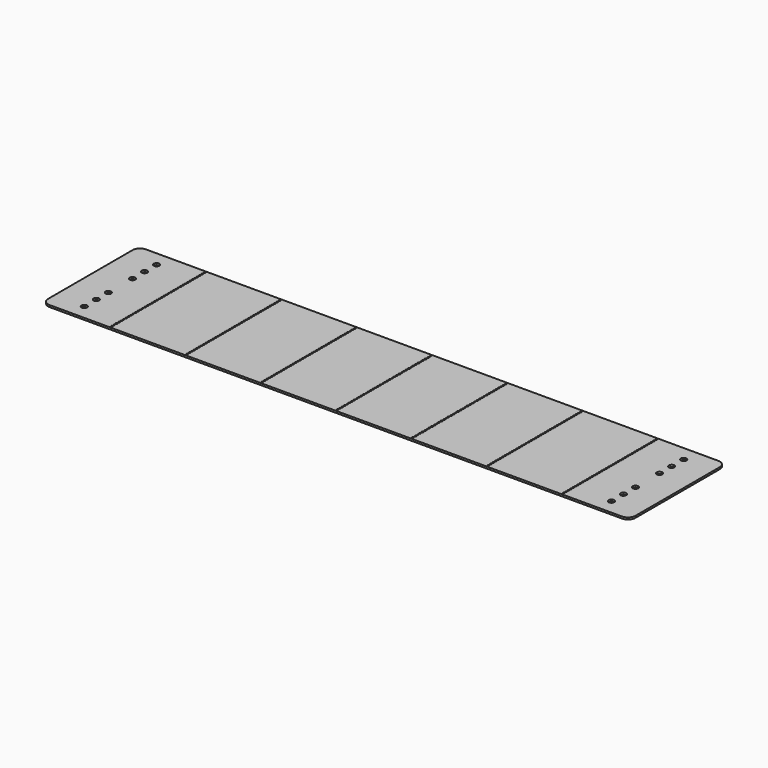
from build123d import *

# Parameters (mm, degrees)
F0_R     = 1.27
F0_R_2   = 4.7625
F1_DEPTH = 3.175


with BuildPart() as f1:
    # F0 (on Top) → F1 (new body)
    with BuildSketch(Plane.XY):
        with BuildLine():
            ThreePointArc((-443.862675, 35.817315), (-444.234649, 36.71534), (-445.132675, 37.087315))
            ThreePointArc((-445.132675, 37.087315), (-446.0307, 34.919289), (-443.862675, 35.817315))
        make_face()
        with BuildLine():
            Line((-445.132675, 39.919415), (-546.732675, 39.919415))
            ThreePointArc((-546.732675, 39.919415), (-555.712931, 36.199671), (-559.432675, 27.219415))
            Line((-559.432675, 27.219415), (-559.432675, -150.580585))
            ThreePointArc((-559.432675, -150.580585), (-555.712931, -159.560841), (-546.732675, -163.280585))
            Line((-546.732675, -163.280585), (418.467325, -163.280585))
            ThreePointArc((418.467325, -163.280585), (427.447582, -159.560841), (431.167325, -150.580585))
            Line((431.167325, -150.580585), (431.167325, 27.219415))
            ThreePointArc((431.167325, 27.219415), (427.447582, 36.199671), (418.467325, 39.919415))
            Line((418.467325, 39.919415), (-445.132675, 39.919415))
        make_face()
        with Locations((-445.132675, -159.182685)):
            Circle(F0_R, mode=Mode.SUBTRACT)
        with Locations((-445.132675, -154.182685)):
            Circle(F0_R, mode=Mode.SUBTRACT)
        with Locations((-445.132675, -149.182685)):
            Circle(F0_R, mode=Mode.SUBTRACT)
        with Locations((-445.132675, -144.182685)):
            Circle(F0_R, mode=Mode.SUBTRACT)
        with Locations((-445.132675, -139.182685)):
            Circle(F0_R, mode=Mode.SUBTRACT)
        with Locations((-318.132675, -159.182685)):
            Circle(F0_R, mode=Mode.SUBTRACT)
        with Locations((-318.132675, -154.182685)):
            Circle(F0_R, mode=Mode.SUBTRACT)
        with Locations((-318.132675, -149.182685)):
            Circle(F0_R, mode=Mode.SUBTRACT)
        with Locations((-318.132675, -144.182685)):
            Circle(F0_R, mode=Mode.SUBTRACT)
        with Locations((-318.132675, -139.182685)):
            Circle(F0_R, mode=Mode.SUBTRACT)
        with Locations((-508.632675, -137.880585)):
            Circle(F0_R_2, mode=Mode.SUBTRACT)
        with Locations((-445.132675, -134.182685)):
            Circle(F0_R, mode=Mode.SUBTRACT)
        with Locations((-445.132675, -129.182685)):
            Circle(F0_R, mode=Mode.SUBTRACT)
        with Locations((-445.132675, -124.182685)):
            Circle(F0_R, mode=Mode.SUBTRACT)
        with Locations((-445.132675, -119.182685)):
            Circle(F0_R, mode=Mode.SUBTRACT)
        with Locations((-445.132675, -114.182685)):
            Circle(F0_R, mode=Mode.SUBTRACT)
        with Locations((-318.132675, -134.182685)):
            Circle(F0_R, mode=Mode.SUBTRACT)
        with Locations((-318.132675, -129.182685)):
            Circle(F0_R, mode=Mode.SUBTRACT)
        with Locations((-318.132675, -124.182685)):
            Circle(F0_R, mode=Mode.SUBTRACT)
        with Locations((-318.132675, -119.182685)):
            Circle(F0_R, mode=Mode.SUBTRACT)
        with Locations((-318.132675, -114.182685)):
            Circle(F0_R, mode=Mode.SUBTRACT)
        with Locations((-191.132675, -159.182685)):
            Circle(F0_R, mode=Mode.SUBTRACT)
        with Locations((-191.132675, -154.182685)):
            Circle(F0_R, mode=Mode.SUBTRACT)
        with Locations((-191.132675, -149.182685)):
            Circle(F0_R, mode=Mode.SUBTRACT)
        with Locations((-191.132675, -144.182685)):
            Circle(F0_R, mode=Mode.SUBTRACT)
        with Locations((-191.132675, -139.182685)):
            Circle(F0_R, mode=Mode.SUBTRACT)
        with Locations((-191.132675, -134.182685)):
            Circle(F0_R, mode=Mode.SUBTRACT)
        with Locations((-191.132675, -129.182685)):
            Circle(F0_R, mode=Mode.SUBTRACT)
        with Locations((-191.132675, -124.182685)):
            Circle(F0_R, mode=Mode.SUBTRACT)
        with Locations((-191.132675, -119.182685)):
            Circle(F0_R, mode=Mode.SUBTRACT)
        with Locations((-191.132675, -114.182685)):
            Circle(F0_R, mode=Mode.SUBTRACT)
        with Locations((-508.632675, -112.480585)):
            Circle(F0_R_2, mode=Mode.SUBTRACT)
        with Locations((-445.132675, -109.182685)):
            Circle(F0_R, mode=Mode.SUBTRACT)
        with Locations((-445.132675, -104.182685)):
            Circle(F0_R, mode=Mode.SUBTRACT)
        with Locations((-445.132675, -99.182685)):
            Circle(F0_R, mode=Mode.SUBTRACT)
        with Locations((-445.132675, -94.182685)):
            Circle(F0_R, mode=Mode.SUBTRACT)
        with Locations((-445.132675, -89.182685)):
            Circle(F0_R, mode=Mode.SUBTRACT)
        with Locations((-318.132675, -109.182685)):
            Circle(F0_R, mode=Mode.SUBTRACT)
        with Locations((-318.132675, -104.182685)):
            Circle(F0_R, mode=Mode.SUBTRACT)
        with Locations((-318.132675, -99.182685)):
            Circle(F0_R, mode=Mode.SUBTRACT)
        with Locations((-318.132675, -94.182685)):
            Circle(F0_R, mode=Mode.SUBTRACT)
        with Locations((-318.132675, -89.182685)):
            Circle(F0_R, mode=Mode.SUBTRACT)
        with Locations((-508.632675, -87.080585)):
            Circle(F0_R_2, mode=Mode.SUBTRACT)
        with Locations((-445.132675, -84.182685)):
            Circle(F0_R, mode=Mode.SUBTRACT)
        with Locations((-445.132675, -79.182685)):
            Circle(F0_R, mode=Mode.SUBTRACT)
        with Locations((-445.132675, -74.182685)):
            Circle(F0_R, mode=Mode.SUBTRACT)
        with Locations((-445.132675, -69.182685)):
            Circle(F0_R, mode=Mode.SUBTRACT)
        with Locations((-445.132675, -64.182685)):
            Circle(F0_R, mode=Mode.SUBTRACT)
        with Locations((-318.132675, -84.182685)):
            Circle(F0_R, mode=Mode.SUBTRACT)
        with Locations((-318.132675, -79.182685)):
            Circle(F0_R, mode=Mode.SUBTRACT)
        with Locations((-318.132675, -74.182685)):
            Circle(F0_R, mode=Mode.SUBTRACT)
        with Locations((-318.132675, -69.182685)):
            Circle(F0_R, mode=Mode.SUBTRACT)
        with Locations((-318.132675, -64.182685)):
            Circle(F0_R, mode=Mode.SUBTRACT)
        with Locations((-191.132675, -109.182685)):
            Circle(F0_R, mode=Mode.SUBTRACT)
        with Locations((-191.132675, -104.182685)):
            Circle(F0_R, mode=Mode.SUBTRACT)
        with Locations((-191.132675, -99.182685)):
            Circle(F0_R, mode=Mode.SUBTRACT)
        with Locations((-191.132675, -94.182685)):
            Circle(F0_R, mode=Mode.SUBTRACT)
        with Locations((-191.132675, -89.182685)):
            Circle(F0_R, mode=Mode.SUBTRACT)
        with Locations((-191.132675, -84.182685)):
            Circle(F0_R, mode=Mode.SUBTRACT)
        with Locations((-191.132675, -79.182685)):
            Circle(F0_R, mode=Mode.SUBTRACT)
        with Locations((-191.132675, -74.182685)):
            Circle(F0_R, mode=Mode.SUBTRACT)
        with Locations((-191.132675, -69.182685)):
            Circle(F0_R, mode=Mode.SUBTRACT)
        with Locations((-191.132675, -64.182685)):
            Circle(F0_R, mode=Mode.SUBTRACT)
        with Locations((-64.132675, -159.182685)):
            Circle(F0_R, mode=Mode.SUBTRACT)
        with Locations((-64.132675, -154.182685)):
            Circle(F0_R, mode=Mode.SUBTRACT)
        with Locations((-64.132675, -149.182685)):
            Circle(F0_R, mode=Mode.SUBTRACT)
        with Locations((-64.132675, -144.182685)):
            Circle(F0_R, mode=Mode.SUBTRACT)
        with Locations((-64.132675, -139.182685)):
            Circle(F0_R, mode=Mode.SUBTRACT)
        with Locations((62.867325, -159.182685)):
            Circle(F0_R, mode=Mode.SUBTRACT)
        with Locations((62.867325, -154.182685)):
            Circle(F0_R, mode=Mode.SUBTRACT)
        with Locations((62.867325, -149.182685)):
            Circle(F0_R, mode=Mode.SUBTRACT)
        with Locations((62.867325, -144.182685)):
            Circle(F0_R, mode=Mode.SUBTRACT)
        with Locations((62.867325, -139.182685)):
            Circle(F0_R, mode=Mode.SUBTRACT)
        with Locations((-64.132675, -134.182685)):
            Circle(F0_R, mode=Mode.SUBTRACT)
        with Locations((-64.132675, -129.182685)):
            Circle(F0_R, mode=Mode.SUBTRACT)
        with Locations((-64.132675, -124.182685)):
            Circle(F0_R, mode=Mode.SUBTRACT)
        with Locations((-64.132675, -119.182685)):
            Circle(F0_R, mode=Mode.SUBTRACT)
        with Locations((-64.132675, -114.182685)):
            Circle(F0_R, mode=Mode.SUBTRACT)
        with Locations((62.867325, -134.182685)):
            Circle(F0_R, mode=Mode.SUBTRACT)
        with Locations((62.867325, -129.182685)):
            Circle(F0_R, mode=Mode.SUBTRACT)
        with Locations((62.867325, -124.182685)):
            Circle(F0_R, mode=Mode.SUBTRACT)
        with Locations((62.867325, -119.182685)):
            Circle(F0_R, mode=Mode.SUBTRACT)
        with Locations((62.867325, -114.182685)):
            Circle(F0_R, mode=Mode.SUBTRACT)
        with Locations((189.867325, -159.182685)):
            Circle(F0_R, mode=Mode.SUBTRACT)
        with Locations((189.867325, -154.182685)):
            Circle(F0_R, mode=Mode.SUBTRACT)
        with Locations((189.867325, -149.182685)):
            Circle(F0_R, mode=Mode.SUBTRACT)
        with Locations((189.867325, -144.182685)):
            Circle(F0_R, mode=Mode.SUBTRACT)
        with Locations((189.867325, -139.182685)):
            Circle(F0_R, mode=Mode.SUBTRACT)
        with Locations((316.867325, -159.182685)):
            Circle(F0_R, mode=Mode.SUBTRACT)
        with Locations((316.867325, -154.182685)):
            Circle(F0_R, mode=Mode.SUBTRACT)
        with Locations((316.867325, -149.182685)):
            Circle(F0_R, mode=Mode.SUBTRACT)
        with Locations((316.867325, -144.182685)):
            Circle(F0_R, mode=Mode.SUBTRACT)
        with Locations((316.867325, -139.182685)):
            Circle(F0_R, mode=Mode.SUBTRACT)
        with Locations((189.867325, -134.182685)):
            Circle(F0_R, mode=Mode.SUBTRACT)
        with Locations((189.867325, -129.182685)):
            Circle(F0_R, mode=Mode.SUBTRACT)
        with Locations((189.867325, -124.182685)):
            Circle(F0_R, mode=Mode.SUBTRACT)
        with Locations((189.867325, -119.182685)):
            Circle(F0_R, mode=Mode.SUBTRACT)
        with Locations((189.867325, -114.182685)):
            Circle(F0_R, mode=Mode.SUBTRACT)
        with Locations((316.867325, -134.182685)):
            Circle(F0_R, mode=Mode.SUBTRACT)
        with Locations((316.867325, -129.182685)):
            Circle(F0_R, mode=Mode.SUBTRACT)
        with Locations((380.367325, -137.880585)):
            Circle(F0_R_2, mode=Mode.SUBTRACT)
        with Locations((316.867325, -124.182685)):
            Circle(F0_R, mode=Mode.SUBTRACT)
        with Locations((316.867325, -119.182685)):
            Circle(F0_R, mode=Mode.SUBTRACT)
        with Locations((316.867325, -114.182685)):
            Circle(F0_R, mode=Mode.SUBTRACT)
        with Locations((-64.132675, -109.182685)):
            Circle(F0_R, mode=Mode.SUBTRACT)
        with Locations((-64.132675, -104.182685)):
            Circle(F0_R, mode=Mode.SUBTRACT)
        with Locations((-64.132675, -99.182685)):
            Circle(F0_R, mode=Mode.SUBTRACT)
        with Locations((-64.132675, -94.182685)):
            Circle(F0_R, mode=Mode.SUBTRACT)
        with Locations((-64.132675, -89.182685)):
            Circle(F0_R, mode=Mode.SUBTRACT)
        with Locations((62.867325, -109.182685)):
            Circle(F0_R, mode=Mode.SUBTRACT)
        with Locations((62.867325, -104.182685)):
            Circle(F0_R, mode=Mode.SUBTRACT)
        with Locations((62.867325, -99.182685)):
            Circle(F0_R, mode=Mode.SUBTRACT)
        with Locations((62.867325, -94.182685)):
            Circle(F0_R, mode=Mode.SUBTRACT)
        with Locations((62.867325, -89.182685)):
            Circle(F0_R, mode=Mode.SUBTRACT)
        with Locations((-64.132675, -84.182685)):
            Circle(F0_R, mode=Mode.SUBTRACT)
        with Locations((-64.132675, -79.182685)):
            Circle(F0_R, mode=Mode.SUBTRACT)
        with Locations((-64.132675, -74.182685)):
            Circle(F0_R, mode=Mode.SUBTRACT)
        with Locations((-64.132675, -69.182685)):
            Circle(F0_R, mode=Mode.SUBTRACT)
        with Locations((-64.132675, -64.182685)):
            Circle(F0_R, mode=Mode.SUBTRACT)
        with Locations((62.867325, -84.182685)):
            Circle(F0_R, mode=Mode.SUBTRACT)
        with Locations((62.867325, -79.182685)):
            Circle(F0_R, mode=Mode.SUBTRACT)
        with Locations((62.867325, -74.182685)):
            Circle(F0_R, mode=Mode.SUBTRACT)
        with Locations((62.867325, -69.182685)):
            Circle(F0_R, mode=Mode.SUBTRACT)
        with Locations((62.867325, -64.182685)):
            Circle(F0_R, mode=Mode.SUBTRACT)
        with Locations((189.867325, -109.182685)):
            Circle(F0_R, mode=Mode.SUBTRACT)
        with Locations((189.867325, -104.182685)):
            Circle(F0_R, mode=Mode.SUBTRACT)
        with Locations((189.867325, -99.182685)):
            Circle(F0_R, mode=Mode.SUBTRACT)
        with Locations((189.867325, -94.182685)):
            Circle(F0_R, mode=Mode.SUBTRACT)
        with Locations((189.867325, -89.182685)):
            Circle(F0_R, mode=Mode.SUBTRACT)
        with Locations((316.867325, -109.182685)):
            Circle(F0_R, mode=Mode.SUBTRACT)
        with Locations((316.867325, -104.182685)):
            Circle(F0_R, mode=Mode.SUBTRACT)
        with Locations((380.367325, -112.480585)):
            Circle(F0_R_2, mode=Mode.SUBTRACT)
        with Locations((316.867325, -99.182685)):
            Circle(F0_R, mode=Mode.SUBTRACT)
        with Locations((316.867325, -94.182685)):
            Circle(F0_R, mode=Mode.SUBTRACT)
        with Locations((316.867325, -89.182685)):
            Circle(F0_R, mode=Mode.SUBTRACT)
        with Locations((189.867325, -84.182685)):
            Circle(F0_R, mode=Mode.SUBTRACT)
        with Locations((189.867325, -79.182685)):
            Circle(F0_R, mode=Mode.SUBTRACT)
        with Locations((189.867325, -74.182685)):
            Circle(F0_R, mode=Mode.SUBTRACT)
        with Locations((189.867325, -69.182685)):
            Circle(F0_R, mode=Mode.SUBTRACT)
        with Locations((189.867325, -64.182685)):
            Circle(F0_R, mode=Mode.SUBTRACT)
        with Locations((316.867325, -84.182685)):
            Circle(F0_R, mode=Mode.SUBTRACT)
        with Locations((316.867325, -79.182685)):
            Circle(F0_R, mode=Mode.SUBTRACT)
        with Locations((380.367325, -87.080585)):
            Circle(F0_R_2, mode=Mode.SUBTRACT)
        with Locations((316.867325, -74.182685)):
            Circle(F0_R, mode=Mode.SUBTRACT)
        with Locations((316.867325, -69.182685)):
            Circle(F0_R, mode=Mode.SUBTRACT)
        with Locations((316.867325, -64.182685)):
            Circle(F0_R, mode=Mode.SUBTRACT)
        with Locations((-445.132675, -59.182685)):
            Circle(F0_R, mode=Mode.SUBTRACT)
        with Locations((-445.132675, -54.182685)):
            Circle(F0_R, mode=Mode.SUBTRACT)
        with Locations((-445.132675, -49.182685)):
            Circle(F0_R, mode=Mode.SUBTRACT)
        with Locations((-508.632675, -36.280585)):
            Circle(F0_R_2, mode=Mode.SUBTRACT)
        with Locations((-445.132675, -44.182685)):
            Circle(F0_R, mode=Mode.SUBTRACT)
        with Locations((-445.132675, -39.182685)):
            Circle(F0_R, mode=Mode.SUBTRACT)
        with Locations((-318.132675, -59.182685)):
            Circle(F0_R, mode=Mode.SUBTRACT)
        with Locations((-318.132675, -54.182685)):
            Circle(F0_R, mode=Mode.SUBTRACT)
        with Locations((-318.132675, -49.182685)):
            Circle(F0_R, mode=Mode.SUBTRACT)
        with Locations((-318.132675, -44.182685)):
            Circle(F0_R, mode=Mode.SUBTRACT)
        with Locations((-318.132675, -39.182685)):
            Circle(F0_R, mode=Mode.SUBTRACT)
        with Locations((-445.132675, -34.182685)):
            Circle(F0_R, mode=Mode.SUBTRACT)
        with Locations((-445.132675, -29.182685)):
            Circle(F0_R, mode=Mode.SUBTRACT)
        with Locations((-445.132675, -24.182685)):
            Circle(F0_R, mode=Mode.SUBTRACT)
        with Locations((-508.632675, -10.880585)):
            Circle(F0_R_2, mode=Mode.SUBTRACT)
        with Locations((-445.132675, -19.182685)):
            Circle(F0_R, mode=Mode.SUBTRACT)
        with Locations((-445.132675, -14.182685)):
            Circle(F0_R, mode=Mode.SUBTRACT)
        with Locations((-318.132675, -34.182685)):
            Circle(F0_R, mode=Mode.SUBTRACT)
        with Locations((-318.132675, -29.182685)):
            Circle(F0_R, mode=Mode.SUBTRACT)
        with Locations((-318.132675, -24.182685)):
            Circle(F0_R, mode=Mode.SUBTRACT)
        with Locations((-318.132675, -19.182685)):
            Circle(F0_R, mode=Mode.SUBTRACT)
        with Locations((-318.132675, -14.182685)):
            Circle(F0_R, mode=Mode.SUBTRACT)
        with Locations((-191.132675, -59.182685)):
            Circle(F0_R, mode=Mode.SUBTRACT)
        with Locations((-191.132675, -54.182685)):
            Circle(F0_R, mode=Mode.SUBTRACT)
        with Locations((-191.132675, -49.182685)):
            Circle(F0_R, mode=Mode.SUBTRACT)
        with Locations((-191.132675, -44.182685)):
            Circle(F0_R, mode=Mode.SUBTRACT)
        with Locations((-191.132675, -39.182685)):
            Circle(F0_R, mode=Mode.SUBTRACT)
        with Locations((-191.132675, -34.182685)):
            Circle(F0_R, mode=Mode.SUBTRACT)
        with Locations((-191.132675, -29.182685)):
            Circle(F0_R, mode=Mode.SUBTRACT)
        with Locations((-191.132675, -24.182685)):
            Circle(F0_R, mode=Mode.SUBTRACT)
        with Locations((-191.132675, -19.182685)):
            Circle(F0_R, mode=Mode.SUBTRACT)
        with Locations((-191.132675, -14.182685)):
            Circle(F0_R, mode=Mode.SUBTRACT)
        with Locations((-445.132675, -9.182685)):
            Circle(F0_R, mode=Mode.SUBTRACT)
        with Locations((-445.132675, -4.182685)):
            Circle(F0_R, mode=Mode.SUBTRACT)
        with Locations((-445.132675, 0.817315)):
            Circle(F0_R, mode=Mode.SUBTRACT)
        with Locations((-508.632675, 14.519415)):
            Circle(F0_R_2, mode=Mode.SUBTRACT)
        with Locations((-445.132675, 5.817315)):
            Circle(F0_R, mode=Mode.SUBTRACT)
        with Locations((-445.132675, 10.817315)):
            Circle(F0_R, mode=Mode.SUBTRACT)
        with Locations((-318.132675, -9.182685)):
            Circle(F0_R, mode=Mode.SUBTRACT)
        with Locations((-318.132675, -4.182685)):
            Circle(F0_R, mode=Mode.SUBTRACT)
        with Locations((-318.132675, 0.817315)):
            Circle(F0_R, mode=Mode.SUBTRACT)
        with Locations((-318.132675, 5.817315)):
            Circle(F0_R, mode=Mode.SUBTRACT)
        with Locations((-318.132675, 10.817315)):
            Circle(F0_R, mode=Mode.SUBTRACT)
        with Locations((-445.132675, 15.817315)):
            Circle(F0_R, mode=Mode.SUBTRACT)
        with Locations((-445.132675, 20.817315)):
            Circle(F0_R, mode=Mode.SUBTRACT)
        with Locations((-445.132675, 25.817315)):
            Circle(F0_R, mode=Mode.SUBTRACT)
        with Locations((-445.132675, 30.817315)):
            Circle(F0_R, mode=Mode.SUBTRACT)
        with BuildLine():
            ThreePointArc((-443.862675, 35.817315), (-446.0307, 34.919289), (-445.132675, 37.087315))
            ThreePointArc((-445.132675, 37.087315), (-444.234649, 36.71534), (-443.862675, 35.817315))
        make_face(mode=Mode.SUBTRACT)
        with Locations((-318.132675, 15.817315)):
            Circle(F0_R, mode=Mode.SUBTRACT)
        with Locations((-318.132675, 20.817315)):
            Circle(F0_R, mode=Mode.SUBTRACT)
        with Locations((-318.132675, 25.817315)):
            Circle(F0_R, mode=Mode.SUBTRACT)
        with Locations((-318.132675, 30.817315)):
            Circle(F0_R, mode=Mode.SUBTRACT)
        with Locations((-318.132675, 35.817315)):
            Circle(F0_R, mode=Mode.SUBTRACT)
        with Locations((-191.132675, -9.182685)):
            Circle(F0_R, mode=Mode.SUBTRACT)
        with Locations((-191.132675, -4.182685)):
            Circle(F0_R, mode=Mode.SUBTRACT)
        with Locations((-191.132675, 0.817315)):
            Circle(F0_R, mode=Mode.SUBTRACT)
        with Locations((-191.132675, 5.817315)):
            Circle(F0_R, mode=Mode.SUBTRACT)
        with Locations((-191.132675, 10.817315)):
            Circle(F0_R, mode=Mode.SUBTRACT)
        with Locations((-191.132675, 15.817315)):
            Circle(F0_R, mode=Mode.SUBTRACT)
        with Locations((-191.132675, 20.817315)):
            Circle(F0_R, mode=Mode.SUBTRACT)
        with Locations((-191.132675, 25.817315)):
            Circle(F0_R, mode=Mode.SUBTRACT)
        with Locations((-191.132675, 30.817315)):
            Circle(F0_R, mode=Mode.SUBTRACT)
        with Locations((-191.132675, 35.817315)):
            Circle(F0_R, mode=Mode.SUBTRACT)
        with Locations((-64.132675, -59.182685)):
            Circle(F0_R, mode=Mode.SUBTRACT)
        with Locations((-64.132675, -54.182685)):
            Circle(F0_R, mode=Mode.SUBTRACT)
        with Locations((-64.132675, -49.182685)):
            Circle(F0_R, mode=Mode.SUBTRACT)
        with Locations((-64.132675, -44.182685)):
            Circle(F0_R, mode=Mode.SUBTRACT)
        with Locations((-64.132675, -39.182685)):
            Circle(F0_R, mode=Mode.SUBTRACT)
        with Locations((62.867325, -59.182685)):
            Circle(F0_R, mode=Mode.SUBTRACT)
        with Locations((62.867325, -54.182685)):
            Circle(F0_R, mode=Mode.SUBTRACT)
        with Locations((62.867325, -49.182685)):
            Circle(F0_R, mode=Mode.SUBTRACT)
        with Locations((62.867325, -44.182685)):
            Circle(F0_R, mode=Mode.SUBTRACT)
        with Locations((62.867325, -39.182685)):
            Circle(F0_R, mode=Mode.SUBTRACT)
        with Locations((-64.132675, -34.182685)):
            Circle(F0_R, mode=Mode.SUBTRACT)
        with Locations((-64.132675, -29.182685)):
            Circle(F0_R, mode=Mode.SUBTRACT)
        with Locations((-64.132675, -24.182685)):
            Circle(F0_R, mode=Mode.SUBTRACT)
        with Locations((-64.132675, -19.182685)):
            Circle(F0_R, mode=Mode.SUBTRACT)
        with Locations((-64.132675, -14.182685)):
            Circle(F0_R, mode=Mode.SUBTRACT)
        with Locations((62.867325, -34.182685)):
            Circle(F0_R, mode=Mode.SUBTRACT)
        with Locations((62.867325, -29.182685)):
            Circle(F0_R, mode=Mode.SUBTRACT)
        with Locations((62.867325, -24.182685)):
            Circle(F0_R, mode=Mode.SUBTRACT)
        with Locations((62.867325, -19.182685)):
            Circle(F0_R, mode=Mode.SUBTRACT)
        with Locations((62.867325, -14.182685)):
            Circle(F0_R, mode=Mode.SUBTRACT)
        with Locations((189.867325, -59.182685)):
            Circle(F0_R, mode=Mode.SUBTRACT)
        with Locations((189.867325, -54.182685)):
            Circle(F0_R, mode=Mode.SUBTRACT)
        with Locations((189.867325, -49.182685)):
            Circle(F0_R, mode=Mode.SUBTRACT)
        with Locations((189.867325, -44.182685)):
            Circle(F0_R, mode=Mode.SUBTRACT)
        with Locations((189.867325, -39.182685)):
            Circle(F0_R, mode=Mode.SUBTRACT)
        with Locations((316.867325, -59.182685)):
            Circle(F0_R, mode=Mode.SUBTRACT)
        with Locations((316.867325, -54.182685)):
            Circle(F0_R, mode=Mode.SUBTRACT)
        with Locations((316.867325, -49.182685)):
            Circle(F0_R, mode=Mode.SUBTRACT)
        with Locations((316.867325, -44.182685)):
            Circle(F0_R, mode=Mode.SUBTRACT)
        with Locations((316.867325, -39.182685)):
            Circle(F0_R, mode=Mode.SUBTRACT)
        with Locations((189.867325, -34.182685)):
            Circle(F0_R, mode=Mode.SUBTRACT)
        with Locations((189.867325, -29.182685)):
            Circle(F0_R, mode=Mode.SUBTRACT)
        with Locations((189.867325, -24.182685)):
            Circle(F0_R, mode=Mode.SUBTRACT)
        with Locations((189.867325, -19.182685)):
            Circle(F0_R, mode=Mode.SUBTRACT)
        with Locations((189.867325, -14.182685)):
            Circle(F0_R, mode=Mode.SUBTRACT)
        with Locations((316.867325, -34.182685)):
            Circle(F0_R, mode=Mode.SUBTRACT)
        with Locations((316.867325, -29.182685)):
            Circle(F0_R, mode=Mode.SUBTRACT)
        with Locations((316.867325, -24.182685)):
            Circle(F0_R, mode=Mode.SUBTRACT)
        with Locations((380.367325, -36.280585)):
            Circle(F0_R_2, mode=Mode.SUBTRACT)
        with Locations((316.867325, -19.182685)):
            Circle(F0_R, mode=Mode.SUBTRACT)
        with Locations((316.867325, -14.182685)):
            Circle(F0_R, mode=Mode.SUBTRACT)
        with Locations((380.367325, -10.880585)):
            Circle(F0_R_2, mode=Mode.SUBTRACT)
        with Locations((-64.132675, -9.182685)):
            Circle(F0_R, mode=Mode.SUBTRACT)
        with Locations((-64.132675, -4.182685)):
            Circle(F0_R, mode=Mode.SUBTRACT)
        with Locations((-64.132675, 0.817315)):
            Circle(F0_R, mode=Mode.SUBTRACT)
        with Locations((-64.132675, 5.817315)):
            Circle(F0_R, mode=Mode.SUBTRACT)
        with Locations((-64.132675, 10.817315)):
            Circle(F0_R, mode=Mode.SUBTRACT)
        with Locations((62.867325, -9.182685)):
            Circle(F0_R, mode=Mode.SUBTRACT)
        with Locations((62.867325, -4.182685)):
            Circle(F0_R, mode=Mode.SUBTRACT)
        with Locations((62.867325, 0.817315)):
            Circle(F0_R, mode=Mode.SUBTRACT)
        with Locations((62.867325, 5.817315)):
            Circle(F0_R, mode=Mode.SUBTRACT)
        with Locations((62.867325, 10.817315)):
            Circle(F0_R, mode=Mode.SUBTRACT)
        with Locations((-64.132675, 15.817315)):
            Circle(F0_R, mode=Mode.SUBTRACT)
        with Locations((-64.132675, 20.817315)):
            Circle(F0_R, mode=Mode.SUBTRACT)
        with Locations((-64.132675, 25.817315)):
            Circle(F0_R, mode=Mode.SUBTRACT)
        with Locations((-64.132675, 30.817315)):
            Circle(F0_R, mode=Mode.SUBTRACT)
        with Locations((-64.132675, 35.817315)):
            Circle(F0_R, mode=Mode.SUBTRACT)
        with Locations((62.867325, 15.817315)):
            Circle(F0_R, mode=Mode.SUBTRACT)
        with Locations((62.867325, 20.817315)):
            Circle(F0_R, mode=Mode.SUBTRACT)
        with Locations((62.867325, 25.817315)):
            Circle(F0_R, mode=Mode.SUBTRACT)
        with Locations((62.867325, 30.817315)):
            Circle(F0_R, mode=Mode.SUBTRACT)
        with Locations((62.867325, 35.817315)):
            Circle(F0_R, mode=Mode.SUBTRACT)
        with Locations((189.867325, -9.182685)):
            Circle(F0_R, mode=Mode.SUBTRACT)
        with Locations((189.867325, -4.182685)):
            Circle(F0_R, mode=Mode.SUBTRACT)
        with Locations((189.867325, 0.817315)):
            Circle(F0_R, mode=Mode.SUBTRACT)
        with Locations((189.867325, 5.817315)):
            Circle(F0_R, mode=Mode.SUBTRACT)
        with Locations((189.867325, 10.817315)):
            Circle(F0_R, mode=Mode.SUBTRACT)
        with Locations((316.867325, -9.182685)):
            Circle(F0_R, mode=Mode.SUBTRACT)
        with Locations((316.867325, -4.182685)):
            Circle(F0_R, mode=Mode.SUBTRACT)
        with Locations((316.867325, 0.817315)):
            Circle(F0_R, mode=Mode.SUBTRACT)
        with Locations((316.867325, 5.817315)):
            Circle(F0_R, mode=Mode.SUBTRACT)
        with Locations((316.867325, 10.817315)):
            Circle(F0_R, mode=Mode.SUBTRACT)
        with Locations((189.867325, 15.817315)):
            Circle(F0_R, mode=Mode.SUBTRACT)
        with Locations((189.867325, 20.817315)):
            Circle(F0_R, mode=Mode.SUBTRACT)
        with Locations((189.867325, 25.817315)):
            Circle(F0_R, mode=Mode.SUBTRACT)
        with Locations((189.867325, 30.817315)):
            Circle(F0_R, mode=Mode.SUBTRACT)
        with Locations((189.867325, 35.817315)):
            Circle(F0_R, mode=Mode.SUBTRACT)
        with Locations((316.867325, 15.817315)):
            Circle(F0_R, mode=Mode.SUBTRACT)
        with Locations((316.867325, 20.817315)):
            Circle(F0_R, mode=Mode.SUBTRACT)
        with Locations((316.867325, 25.817315)):
            Circle(F0_R, mode=Mode.SUBTRACT)
        with Locations((380.367325, 14.519415)):
            Circle(F0_R_2, mode=Mode.SUBTRACT)
        with Locations((316.867325, 30.817315)):
            Circle(F0_R, mode=Mode.SUBTRACT)
        with Locations((316.867325, 35.817315)):
            Circle(F0_R, mode=Mode.SUBTRACT)
    extrude(amount=F1_DEPTH)


solid = f1.part
